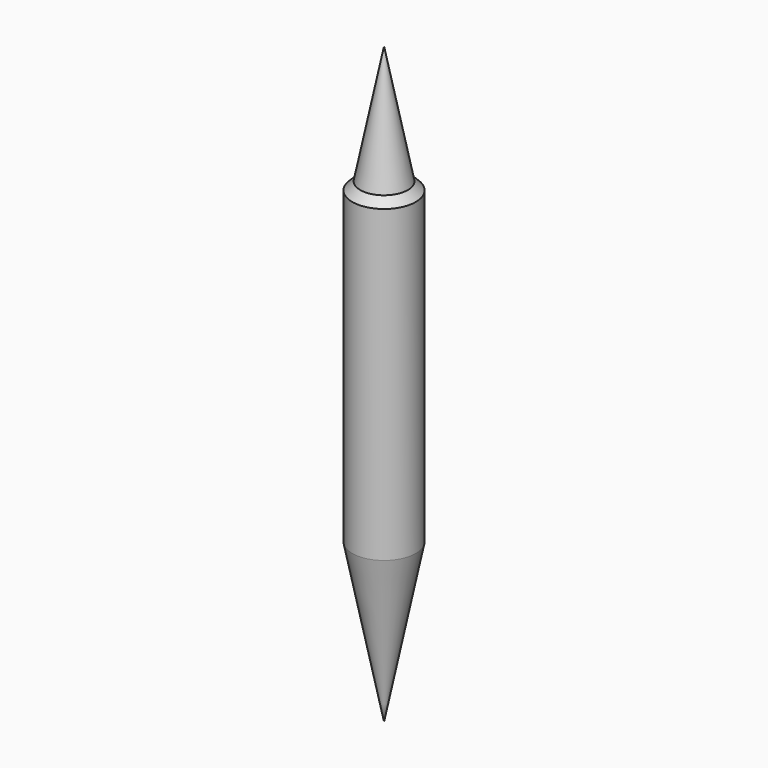
from build123d import *


with BuildPart() as f1:
    # F0 (on Front) → F1 (revolve)
    with BuildSketch(Plane.XZ):
        Polygon((0, 10.16), (0, 0), (1.016, 0), (1.016, 9.906), (0.762, 10.16), align=None)
        Polygon((0, 13.97), (0, 10.16), (0.762, 10.16), align=None)
        Polygon((1.016, 0), (0, 0), (0, -5.08), align=None)
    revolve(axis=Axis((0, 0, 4.626156), (0, 0, -1)))


solid = f1.part
